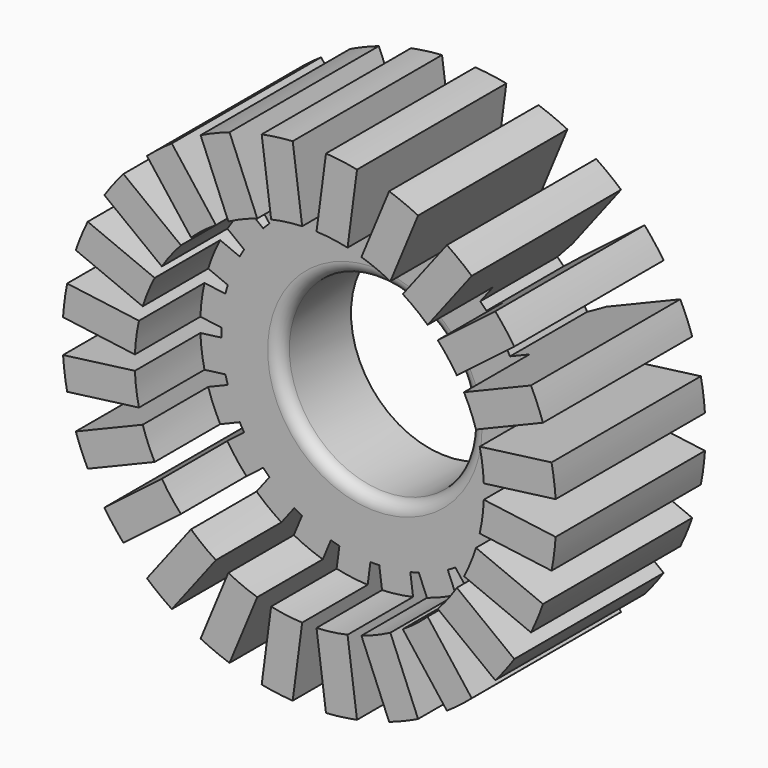
from build123d import *

# Parameters (mm, degrees)
F0_R     = 7.9
F1_DEPTH = 15.5
F2_R     = 12.75
F3_DEPTH = 6.8
F4_R     = 1
F7_R     = 14.5
F8_DEPTH = 6.8


with BuildPart() as f1:
    # F0 (on Front) → F1 (new body)
    with BuildSketch(Plane.XZ):
        with BuildLine():
            ThreePointArc((12.7447268428, -0.3666574712), (12.7486816426, -0.1833476938), (12.75, 0))
            ThreePointArc((12.75, 0), (12.7486816426, 0.1833476938), (12.7447268428, 0.3666574712))
            ThreePointArc((12.7447268428, 0.3666574712), (12.6409219825, 1.6642089508), (12.4053587431, 2.9444141107))
            ThreePointArc((12.4053587431, 2.9444141107), (12.3155542852, 3.2999428251), (12.2155628699, 3.6527419524))
            ThreePointArc((12.2155628699, 3.6527419524), (11.7794640395, 4.8792137627), (11.2205859458, 6.0548287369))
            ThreePointArc((11.2205859458, 6.0548287369), (11.0418238983, 6.375), (10.8539284746, 6.689898106))
            ThreePointArc((10.8539284746, 6.689898106), (10.1152550887, 7.7617082199), (9.2711487592, 8.7526167907))
            ThreePointArc((9.2711487592, 8.7526167907), (9.0156114601, 9.0156114601), (8.7526167907, 9.2711487592))
            ThreePointArc((8.7526167907, 9.2711487592), (7.7617082199, 10.1152550887), (6.689898106, 10.8539284746))
            ThreePointArc((6.689898106, 10.8539284746), (6.375, 11.0418238983), (6.0548287369, 11.2205859458))
            ThreePointArc((6.0548287369, 11.2205859458), (4.8792137627, 11.7794640395), (3.6527419524, 12.2155628699))
            ThreePointArc((3.6527419524, 12.2155628699), (3.2999428251, 12.3155542852), (2.9444141107, 12.4053587431))
            ThreePointArc((2.9444141107, 12.4053587431), (1.6642089508, 12.6409219825), (0.3666574712, 12.7447268428))
            ThreePointArc((0.3666574712, 12.7447268428), (0, 12.75), (-0.3666574712, 12.7447268428))
            ThreePointArc((-0.3666574712, 12.7447268428), (-1.6642089508, 12.6409219825), (-2.9444141107, 12.4053587431))
            ThreePointArc((-2.9444141107, 12.4053587431), (-3.2999428251, 12.3155542852), (-3.6527419524, 12.2155628699))
            ThreePointArc((-3.6527419524, 12.2155628699), (-4.8792137627, 11.7794640395), (-6.0548287369, 11.2205859458))
            ThreePointArc((-6.0548287369, 11.2205859458), (-6.375, 11.0418238983), (-6.689898106, 10.8539284746))
            ThreePointArc((-6.689898106, 10.8539284746), (-7.7617082199, 10.1152550887), (-8.7526167907, 9.2711487592))
            ThreePointArc((-8.7526167907, 9.2711487592), (-9.0156114601, 9.0156114601), (-9.2711487592, 8.7526167907))
            ThreePointArc((-9.2711487592, 8.7526167907), (-10.1152550887, 7.7617082199), (-10.8539284746, 6.689898106))
            ThreePointArc((-10.8539284746, 6.689898106), (-11.0418238983, 6.375), (-11.2205859458, 6.0548287369))
            ThreePointArc((-11.2205859458, 6.0548287369), (-11.7794640395, 4.8792137627), (-12.2155628699, 3.6527419524))
            ThreePointArc((-12.2155628699, 3.6527419524), (-12.3155542852, 3.2999428251), (-12.4053587431, 2.9444141107))
            ThreePointArc((-12.4053587431, 2.9444141107), (-12.6409219825, 1.6642089508), (-12.7447268428, 0.3666574712))
            ThreePointArc((-12.7447268428, 0.3666574712), (-12.75, 0), (-12.7447268428, -0.3666574712))
            ThreePointArc((-12.7447268428, -0.3666574712), (-12.6409219825, -1.6642089508), (-12.4053587431, -2.9444141107))
            ThreePointArc((-12.4053587431, -2.9444141107), (-12.3155542852, -3.2999428251), (-12.2155628699, -3.6527419524))
            ThreePointArc((-12.2155628699, -3.6527419524), (-11.7794640395, -4.8792137627), (-11.2205859458, -6.0548287369))
            ThreePointArc((-11.2205859458, -6.0548287369), (-11.0418238983, -6.375), (-10.8539284746, -6.689898106))
            ThreePointArc((-10.8539284746, -6.689898106), (-10.1152550887, -7.7617082199), (-9.2711487592, -8.7526167907))
            ThreePointArc((-9.2711487592, -8.7526167907), (-9.0156114601, -9.0156114601), (-8.7526167907, -9.2711487592))
            ThreePointArc((-8.7526167907, -9.2711487592), (-7.7617082199, -10.1152550887), (-6.689898106, -10.8539284746))
            ThreePointArc((-6.689898106, -10.8539284746), (-6.375, -11.0418238983), (-6.0548287369, -11.2205859458))
            ThreePointArc((-6.0548287369, -11.2205859458), (-4.8792137627, -11.7794640395), (-3.6527419524, -12.2155628699))
            ThreePointArc((-3.6527419524, -12.2155628699), (-3.2999428251, -12.3155542852), (-2.9444141107, -12.4053587431))
            ThreePointArc((-2.9444141107, -12.4053587431), (-1.6642089508, -12.6409219825), (-0.3666574712, -12.7447268428))
            ThreePointArc((-0.3666574712, -12.7447268428), (0, -12.75), (0.3666574712, -12.7447268428))
            ThreePointArc((0.3666574712, -12.7447268428), (1.6642089508, -12.6409219825), (2.9444141107, -12.4053587431))
            ThreePointArc((2.9444141107, -12.4053587431), (3.2999428251, -12.3155542852), (3.6527419524, -12.2155628699))
            ThreePointArc((3.6527419524, -12.2155628699), (4.8792137627, -11.7794640395), (6.0548287369, -11.2205859458))
            ThreePointArc((6.0548287369, -11.2205859458), (6.375, -11.0418238983), (6.689898106, -10.8539284746))
            ThreePointArc((6.689898106, -10.8539284746), (7.7617082199, -10.1152550887), (8.7526167907, -9.2711487592))
            ThreePointArc((8.7526167907, -9.2711487592), (9.0156114601, -9.0156114601), (9.2711487592, -8.7526167907))
            ThreePointArc((9.2711487592, -8.7526167907), (10.1152550887, -7.7617082199), (10.8539284746, -6.689898106))
            ThreePointArc((10.8539284746, -6.689898106), (11.0418238983, -6.375), (11.2205859458, -6.0548287369))
            ThreePointArc((11.2205859458, -6.0548287369), (11.7794640395, -4.8792137627), (12.2155628699, -3.6527419524))
            ThreePointArc((12.2155628699, -3.6527419524), (12.3155542852, -3.2999428251), (12.4053587431, -2.9444141107))
            ThreePointArc((12.4053587431, -2.9444141107), (12.6409219825, -1.6642089508), (12.7447268428, -0.3666574712))
        make_face()
        Circle(F0_R, mode=Mode.SUBTRACT)
        with BuildLine():
            ThreePointArc((12.4053587431, 2.9444141107), (12.6409219825, 1.6642089508), (12.7447268428, 0.3666574712))
            Line((12.7447268428, 0.3666574712), (20.453395666, 1.3815229748))
            ThreePointArc((20.453395666, 1.3815229748), (20.3246196582, 2.6757869405), (20.1140275662, 3.9592796144))
            Line((20.1140275662, 3.9592796144), (12.4053587431, 2.9444141107))
        make_face()
        with BuildLine():
            Line((20.453395666, -1.3815229748), (12.7447268428, -0.3666574712))
            ThreePointArc((12.7447268428, -0.3666574712), (12.6409219825, -1.6642089508), (12.4053587431, -2.9444141107))
            Line((12.4053587431, -2.9444141107), (20.1140275662, -3.9592796144))
            ThreePointArc((20.1140275662, -3.9592796144), (20.3246196582, -2.6757869405), (20.453395666, -1.3815229748))
        make_face()
        with BuildLine():
            ThreePointArc((11.2205859458, 6.0548287369), (11.7794640395, 4.8792137627), (12.2155628699, 3.6527419524))
            Line((12.2155628699, 3.6527419524), (19.398898652, 6.6281770564))
            ThreePointArc((19.398898652, 6.6281770564), (18.9395304165, 7.8450103635), (18.4039217278, 9.0302638409))
            Line((18.4039217278, 9.0302638409), (11.2205859458, 6.0548287369))
        make_face()
        with BuildLine():
            Line((19.398898652, -6.6281770564), (12.2155628699, -3.6527419524))
            ThreePointArc((12.2155628699, -3.6527419524), (11.7794640395, -4.8792137627), (11.2205859458, -6.0548287369))
            Line((11.2205859458, -6.0548287369), (18.4039217278, -9.0302638409))
            ThreePointArc((18.4039217278, -9.0302638409), (18.9395304165, -7.8450103635), (19.398898652, -6.6281770564))
        make_face()
        with BuildLine():
            ThreePointArc((9.2711487592, 8.7526167907), (10.1152550887, 7.7617082199), (10.8539284746, 6.689898106))
            Line((10.8539284746, 6.689898106), (17.022398753, 11.4231318251))
            ThreePointArc((17.022398753, 11.4231318251), (16.263743476, 12.4796092947), (15.4396190376, 13.4858505099))
            Line((15.4396190376, 13.4858505099), (9.2711487592, 8.7526167907))
        make_face()
        with BuildLine():
            Line((17.022398753, -11.4231318251), (10.8539284746, -6.689898106))
            ThreePointArc((10.8539284746, -6.689898106), (10.1152550887, -7.7617082199), (9.2711487592, -8.7526167907))
            Line((9.2711487592, -8.7526167907), (15.4396190376, -13.4858505099))
            ThreePointArc((15.4396190376, -13.4858505099), (16.263743476, -12.4796092947), (17.022398753, -11.4231318251))
        make_face()
        with BuildLine():
            ThreePointArc((6.689898106, 10.8539284746), (7.7617082199, 10.1152550887), (8.7526167907, 9.2711487592))
            Line((8.7526167907, 9.2711487592), (13.4858505099, 15.4396190376))
            ThreePointArc((13.4858505099, 15.4396190376), (12.4796092947, 16.263743476), (11.4231318251, 17.022398753))
            Line((11.4231318251, 17.022398753), (6.689898106, 10.8539284746))
        make_face()
        with BuildLine():
            Line((13.4858505099, -15.4396190376), (8.7526167907, -9.2711487592))
            ThreePointArc((8.7526167907, -9.2711487592), (7.7617082199, -10.1152550887), (6.689898106, -10.8539284746))
            Line((6.689898106, -10.8539284746), (11.4231318251, -17.022398753))
            ThreePointArc((11.4231318251, -17.022398753), (12.4796092947, -16.263743476), (13.4858505099, -15.4396190376))
        make_face()
        with BuildLine():
            ThreePointArc((3.6527419524, 12.2155628699), (4.8792137627, 11.7794640395), (6.0548287369, 11.2205859458))
            Line((6.0548287369, 11.2205859458), (9.0302638409, 18.4039217278))
            ThreePointArc((9.0302638409, 18.4039217278), (7.8450103635, 18.9395304165), (6.6281770564, 19.398898652))
            Line((6.6281770564, 19.398898652), (3.6527419524, 12.2155628699))
        make_face()
        with BuildLine():
            Line((9.0302638409, -18.4039217278), (6.0548287369, -11.2205859458))
            ThreePointArc((6.0548287369, -11.2205859458), (4.8792137627, -11.7794640395), (3.6527419524, -12.2155628699))
            Line((3.6527419524, -12.2155628699), (6.6281770564, -19.398898652))
            ThreePointArc((6.6281770564, -19.398898652), (7.8450103635, -18.9395304165), (9.0302638409, -18.4039217278))
        make_face()
        with BuildLine():
            ThreePointArc((0.3666574712, 12.7447268428), (1.6642089508, 12.6409219825), (2.9444141107, 12.4053587431))
            Line((2.9444141107, 12.4053587431), (3.9592796144, 20.1140275662))
            ThreePointArc((3.9592796144, 20.1140275662), (2.6757869405, 20.3246196582), (1.3815229748, 20.453395666))
            Line((1.3815229748, 20.453395666), (0.3666574712, 12.7447268428))
        make_face()
        with BuildLine():
            Line((3.9592796144, -20.1140275662), (2.9444141107, -12.4053587431))
            ThreePointArc((2.9444141107, -12.4053587431), (1.6642089508, -12.6409219825), (0.3666574712, -12.7447268428))
            Line((0.3666574712, -12.7447268428), (1.3815229748, -20.453395666))
            ThreePointArc((1.3815229748, -20.453395666), (2.6757869405, -20.3246196582), (3.9592796144, -20.1140275662))
        make_face()
        with BuildLine():
            ThreePointArc((-2.9444141107, 12.4053587431), (-1.6642089508, 12.6409219825), (-0.3666574712, 12.7447268428))
            Line((-0.3666574712, 12.7447268428), (-1.3815229748, 20.453395666))
            ThreePointArc((-1.3815229748, 20.453395666), (-2.6757869405, 20.3246196582), (-3.9592796144, 20.1140275662))
            Line((-3.9592796144, 20.1140275662), (-2.9444141107, 12.4053587431))
        make_face()
        with BuildLine():
            Line((-1.3815229748, -20.453395666), (-0.3666574712, -12.7447268428))
            ThreePointArc((-0.3666574712, -12.7447268428), (-1.6642089508, -12.6409219825), (-2.9444141107, -12.4053587431))
            Line((-2.9444141107, -12.4053587431), (-3.9592796144, -20.1140275662))
            ThreePointArc((-3.9592796144, -20.1140275662), (-2.6757869405, -20.3246196582), (-1.3815229748, -20.453395666))
        make_face()
        with BuildLine():
            ThreePointArc((-6.0548287369, 11.2205859458), (-4.8792137627, 11.7794640395), (-3.6527419524, 12.2155628699))
            Line((-3.6527419524, 12.2155628699), (-6.6281770564, 19.398898652))
            ThreePointArc((-6.6281770564, 19.398898652), (-7.8450103635, 18.9395304165), (-9.0302638409, 18.4039217278))
            Line((-9.0302638409, 18.4039217278), (-6.0548287369, 11.2205859458))
        make_face()
        with BuildLine():
            Line((-6.6281770564, -19.398898652), (-3.6527419524, -12.2155628699))
            ThreePointArc((-3.6527419524, -12.2155628699), (-4.8792137627, -11.7794640395), (-6.0548287369, -11.2205859458))
            Line((-6.0548287369, -11.2205859458), (-9.0302638409, -18.4039217278))
            ThreePointArc((-9.0302638409, -18.4039217278), (-7.8450103635, -18.9395304165), (-6.6281770564, -19.398898652))
        make_face()
        with BuildLine():
            ThreePointArc((-8.7526167907, 9.2711487592), (-7.7617082199, 10.1152550887), (-6.689898106, 10.8539284746))
            Line((-6.689898106, 10.8539284746), (-11.4231318251, 17.022398753))
            ThreePointArc((-11.4231318251, 17.022398753), (-12.4796092947, 16.263743476), (-13.4858505099, 15.4396190376))
            Line((-13.4858505099, 15.4396190376), (-8.7526167907, 9.2711487592))
        make_face()
        with BuildLine():
            Line((-11.4231318251, -17.022398753), (-6.689898106, -10.8539284746))
            ThreePointArc((-6.689898106, -10.8539284746), (-7.7617082199, -10.1152550887), (-8.7526167907, -9.2711487592))
            Line((-8.7526167907, -9.2711487592), (-13.4858505099, -15.4396190376))
            ThreePointArc((-13.4858505099, -15.4396190376), (-12.4796092947, -16.263743476), (-11.4231318251, -17.022398753))
        make_face()
        with BuildLine():
            ThreePointArc((-10.8539284746, 6.689898106), (-10.1152550887, 7.7617082199), (-9.2711487592, 8.7526167907))
            Line((-9.2711487592, 8.7526167907), (-15.4396190376, 13.4858505099))
            ThreePointArc((-15.4396190376, 13.4858505099), (-16.263743476, 12.4796092947), (-17.022398753, 11.4231318251))
            Line((-17.022398753, 11.4231318251), (-10.8539284746, 6.689898106))
        make_face()
        with BuildLine():
            Line((-15.4396190376, -13.4858505099), (-9.2711487592, -8.7526167907))
            ThreePointArc((-9.2711487592, -8.7526167907), (-10.1152550887, -7.7617082199), (-10.8539284746, -6.689898106))
            Line((-10.8539284746, -6.689898106), (-17.022398753, -11.4231318251))
            ThreePointArc((-17.022398753, -11.4231318251), (-16.263743476, -12.4796092947), (-15.4396190376, -13.4858505099))
        make_face()
        with BuildLine():
            ThreePointArc((-12.2155628699, 3.6527419524), (-11.7794640395, 4.8792137627), (-11.2205859458, 6.0548287369))
            Line((-11.2205859458, 6.0548287369), (-18.4039217278, 9.0302638409))
            ThreePointArc((-18.4039217278, 9.0302638409), (-18.9395304165, 7.8450103635), (-19.398898652, 6.6281770564))
            Line((-19.398898652, 6.6281770564), (-12.2155628699, 3.6527419524))
        make_face()
        with BuildLine():
            Line((-18.4039217278, -9.0302638409), (-11.2205859458, -6.0548287369))
            ThreePointArc((-11.2205859458, -6.0548287369), (-11.7794640395, -4.8792137627), (-12.2155628699, -3.6527419524))
            Line((-12.2155628699, -3.6527419524), (-19.398898652, -6.6281770564))
            ThreePointArc((-19.398898652, -6.6281770564), (-18.9395304165, -7.8450103635), (-18.4039217278, -9.0302638409))
        make_face()
        with BuildLine():
            ThreePointArc((-12.7447268428, 0.3666574712), (-12.6409219825, 1.6642089508), (-12.4053587431, 2.9444141107))
            Line((-12.4053587431, 2.9444141107), (-20.1140275662, 3.9592796144))
            ThreePointArc((-20.1140275662, 3.9592796144), (-20.3246196582, 2.6757869405), (-20.453395666, 1.3815229748))
            Line((-20.453395666, 1.3815229748), (-12.7447268428, 0.3666574712))
        make_face()
        with BuildLine():
            Line((-20.1140275662, -3.9592796144), (-12.4053587431, -2.9444141107))
            ThreePointArc((-12.4053587431, -2.9444141107), (-12.6409219825, -1.6642089508), (-12.7447268428, -0.3666574712))
            Line((-12.7447268428, -0.3666574712), (-20.453395666, -1.3815229748))
            ThreePointArc((-20.453395666, -1.3815229748), (-20.3246196582, -2.6757869405), (-20.1140275662, -3.9592796144))
        make_face()
    extrude(amount=F1_DEPTH)

    # F2 (on face) → F3 (cut)
    with BuildSketch(Plane.XZ.offset(15.5)):
        Circle(F2_R)
    extrude(amount=-F3_DEPTH, mode=Mode.SUBTRACT)

    # F4
    f4_edges = [f1.edges().sort_by_distance(p)[0] for p in [
        (-7.9, -8.7, 0),
    ]]
    fillet(f4_edges, radius=F4_R)

    # F5 (on Right) → F6 (revolve, cut)
    with BuildSketch(Plane.YZ):
        with BuildLine():
            Line((0, -13.8384428315), (0, 0))
            Line((0, 0), (-1.3, 0))
            Line((-1.3, 0), (-1.3, -10.1088315917))
            ThreePointArc((-1.3, -10.1088315917), (-0.9656861897, -12.0836733575), (0, -13.8384428315))
        make_face()
    revolve(axis=Axis((0, -0.65, 0), (0, -1, 0)), mode=Mode.SUBTRACT)

    # F7 (on face) → F8 (cut, through all)
    with BuildSketch(Plane.XZ.offset(15.5)):
        Circle(F7_R)
    extrude(amount=-F8_DEPTH, mode=Mode.SUBTRACT)


solid = f1.part
